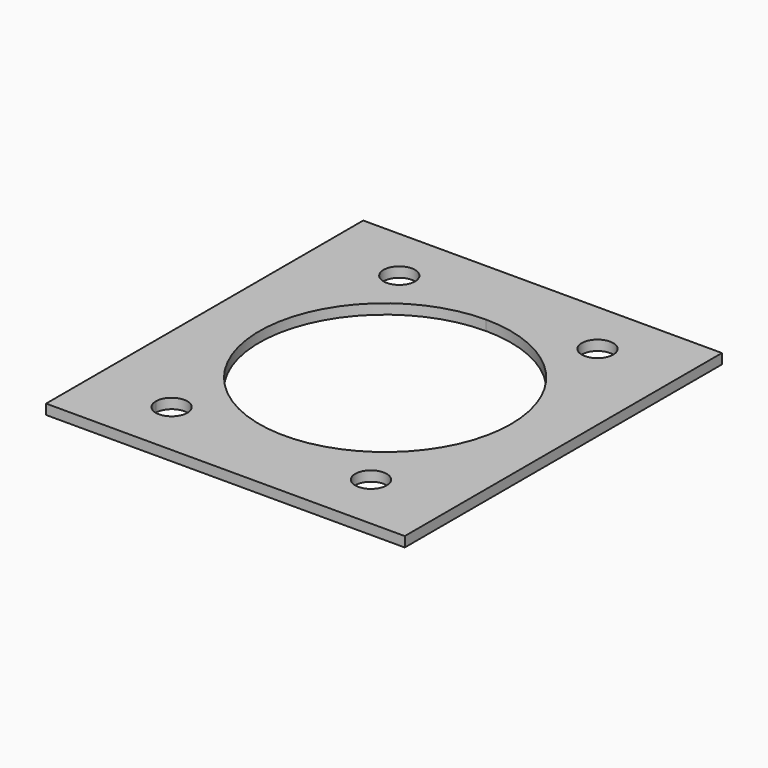
from build123d import *

# Parameters (mm, degrees)
F0_R     = 2.5
F1_DEPTH = 1.6


with BuildPart() as f1:
    # F0 (on Top) → F1 (new body)
    with BuildSketch(Plane.XY):
        with BuildLine():
            Line((-44.25, 0), (0, 0))
            Line((0, 0), (0, 63))
            Line((0, 63), (-57, 63))
            Line((-57, 63), (-57, 9))
            Line((-57, 9), (-46.75, 9))
            ThreePointArc((-46.75, 9), (-44.25, 11.5), (-41.75, 9))
            ThreePointArc((-41.75, 9), (-42.482233047, 7.232233047), (-44.25, 6.5))
            Line((-44.25, 6.5), (-44.25, 0))
        make_face()
        with Locations((-12.75, 9.2245186158)):
            Circle(F0_R, mode=Mode.SUBTRACT)
        with BuildLine():
            ThreePointArc((-46.75, 54.2245186158), (-44.25, 56.7245186158), (-41.75, 54.2245186158))
            ThreePointArc((-41.75, 54.2245186158), (-44.25, 51.7245186158), (-46.75, 54.2245186158))
        make_face(mode=Mode.SUBTRACT)
        with BuildLine():
            ThreePointArc((-8.5, 31.7245186158), (-42.6421356237, 17.582382992), (-28.5, 51.7245186158))
            ThreePointArc((-28.5, 51.7245186158), (-14.3578643763, 45.8666542395), (-8.5, 31.7245186158))
        make_face(mode=Mode.SUBTRACT)
        with BuildLine():
            ThreePointArc((-15.25, 54.2245186158), (-12.75, 56.7245186158), (-10.25, 54.2245186158))
            ThreePointArc((-10.25, 54.2245186158), (-12.75, 51.7245186158), (-15.25, 54.2245186158))
        make_face(mode=Mode.SUBTRACT)
        with BuildLine():
            Line((-57, 0), (-44.25, 0))
            Line((-44.25, 0), (-44.25, 6.5))
            ThreePointArc((-44.25, 6.5), (-46.017766953, 7.232233047), (-46.75, 9))
            Line((-46.75, 9), (-57, 9))
            Line((-57, 9), (-57, 0))
        make_face()
    extrude(amount=F1_DEPTH)


solid = f1.part
